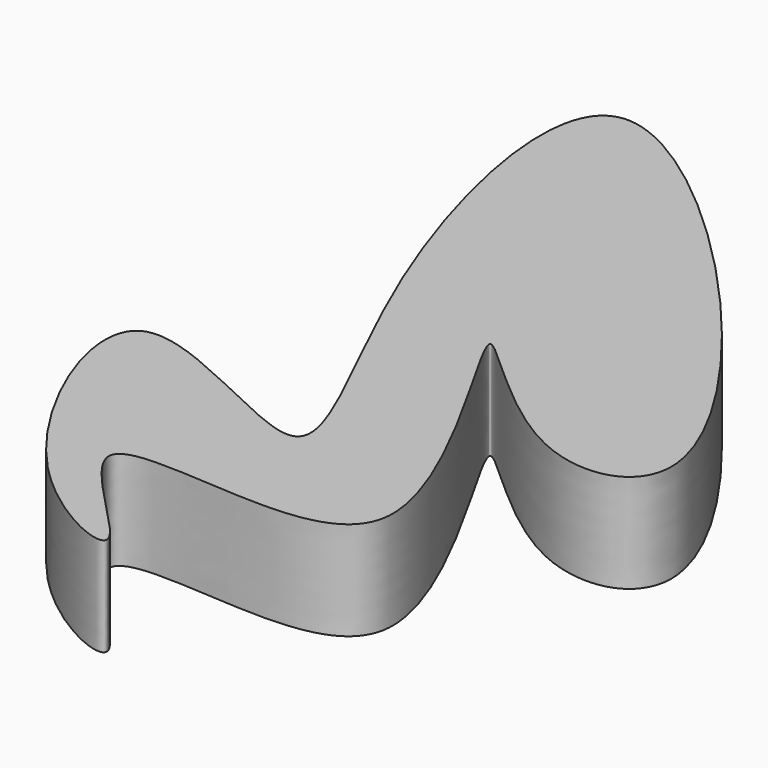
from build123d import *

# Parameters (mm, degrees)
F1_DEPTH = 25.4


with BuildPart() as f1:
    # F0 (on Top) → F1 (new body)
    with BuildSketch(Plane.XY):
        with BuildLine():
            add(Edge.make_bspline(
                [(-97.5976064801, -52.6591390371), (-116.464210166, -32.9087942567), (-143.6632064624, 33.3785679018), (-41.1300168838, -36.769698392), (-99.823162701, 52.4301016905), (-132.6758748677, 198.9675964053), (29.5140345378, 22.642250466), (-27.2062177152, 7.3445527711), (-87.1540501231, 77.6018708594), (-8.13224542, -38.5016232921), (-61.7962756864, -39.1282342437), (-108.0356825253, -33.6802900695), (-50.7369685656, -80.5083131847), (-83.8504851522, -67.0501969342), (-97.5976064801, -52.6591390371)],
                knots=[0, 0, 0, 0, 0.0891492667, 0.171779345, 0.2665460034, 0.3697536706, 0.5079670673, 0.5659820295, 0.6427891711, 0.7418162301, 0.8082373002, 0.8677896815, 0.935041526, 1, 1, 1, 1], degree=3))
        make_face()
    extrude(amount=F1_DEPTH)


solid = f1.part
